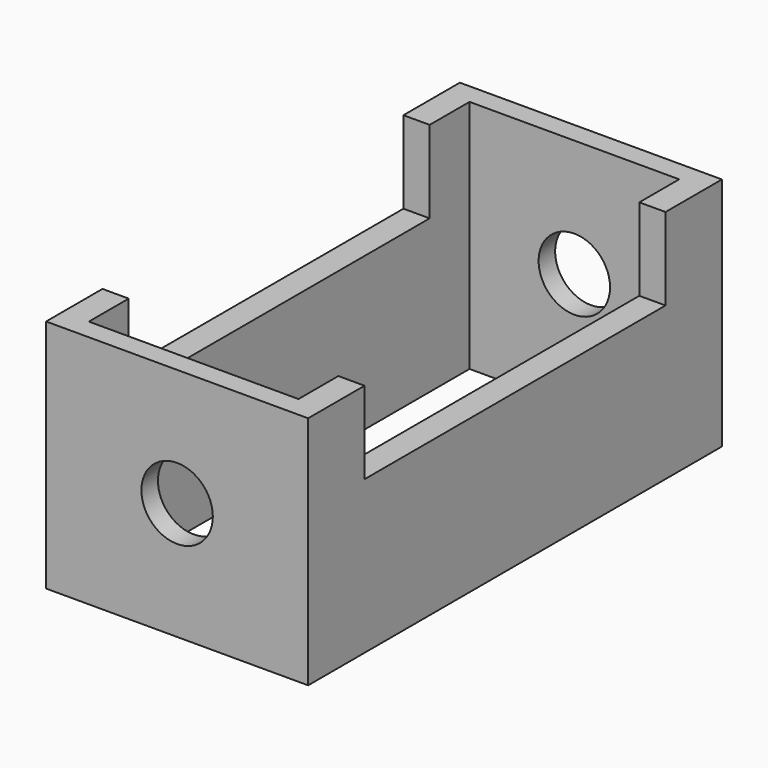
from build123d import *

# Parameters (mm, degrees)
F0_W     = 56.617882
F0_H     = 111.745812
F0_W_2   = 45.294308
F0_H_2   = 102.806144
F1_DEPTH = 50.8
F3_DEPTH = 76.2
F4_R     = 7.715563
F5_DEPTH = 127


with BuildPart() as f1:
    # F0 (on Top) → F1 (new body)
    with BuildSketch(Plane.XY):
        Rectangle(F0_W, F0_H)
        Rectangle(F0_W_2, F0_H_2, mode=Mode.SUBTRACT)
    extrude(amount=F1_DEPTH)

    # F2 (on face) → F3 (cut)
    with BuildSketch(Plane.YZ.offset(28.308941)):
        Polygon((40.64, 50.8), (0, 50.8), (-40.64, 50.8), (-40.64, 33.02), (40.64, 33.02), align=None)
    extrude(amount=-F3_DEPTH, mode=Mode.SUBTRACT)

    # F4 (on face) → F5 (cut)
    with BuildSketch(Plane.XZ.offset(55.872906)):
        with Locations((0, 25.4)):
            Circle(F4_R)
    extrude(amount=-F5_DEPTH, mode=Mode.SUBTRACT)


solid = f1.part
